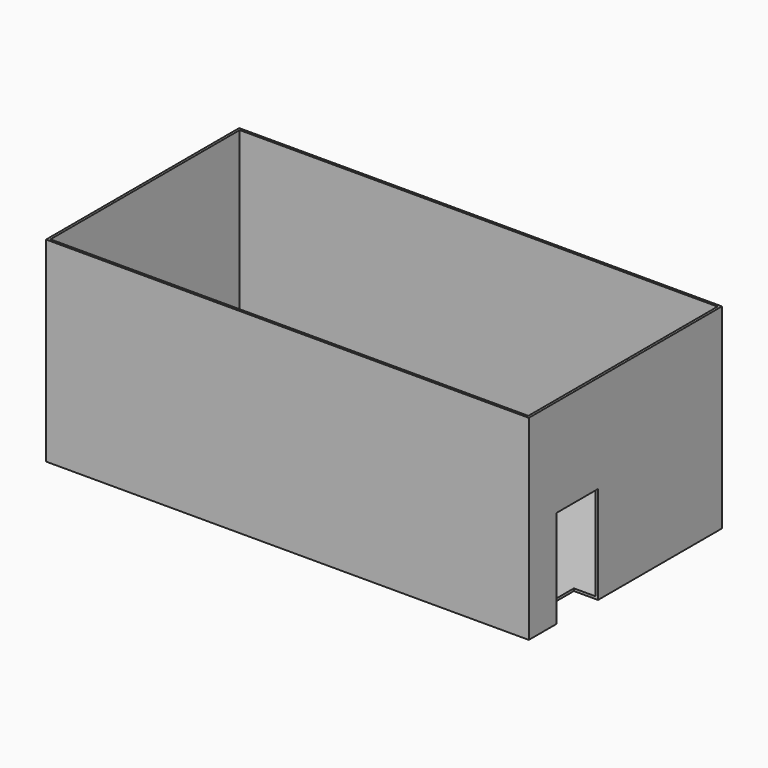
from build123d import *

# Parameters (mm, degrees)
F0_W     = 508
F0_H     = 254
F1_DEPTH = 2.54
F2_W     = 505.46
F2_H     = 2.54
F3_DEPTH = 203.2
F4_W     = 2.54
F4_H     = 248.92
F5_DEPTH = 203.2
F6_W     = 54.724466
F6_H     = 102.87
F7_DEPTH = 25.4


with BuildPart() as f1:
    # F0 (on Top) → F1 (new body)
    with BuildSketch(Plane.XY):
        Rectangle(F0_W, F0_H)
    extrude(amount=F1_DEPTH)

    # F2 (on face) → F3 (join)
    with BuildSketch(Plane.XY.offset(2.54)):
        Polygon((-251.46, 127), (-254, 127), (-254, -127), (-251.46, -127), (-251.46, 124.46), align=None)
        with Locations((1.27, 125.73)):
            Rectangle(F2_W, F2_H)
    extrude(amount=F3_DEPTH)

    # F4 (on face) → F5 (join)
    with BuildSketch(Plane.XY.offset(2.54)):
        Polygon((-251.46, -124.46), (-251.46, -127), (254, -127), (254, -124.46), (251.46, -124.46), align=None)
        with Locations((252.73, 0)):
            Rectangle(F4_W, F4_H)
    extrude(amount=F5_DEPTH)

    # F6 (on face) → F7 (cut)
    with BuildSketch(Plane.YZ.offset(254)):
        with Locations((-63.324029, 51.435)):
            Rectangle(F6_W, F6_H)
    extrude(amount=-F7_DEPTH, mode=Mode.SUBTRACT)


solid = f1.part
